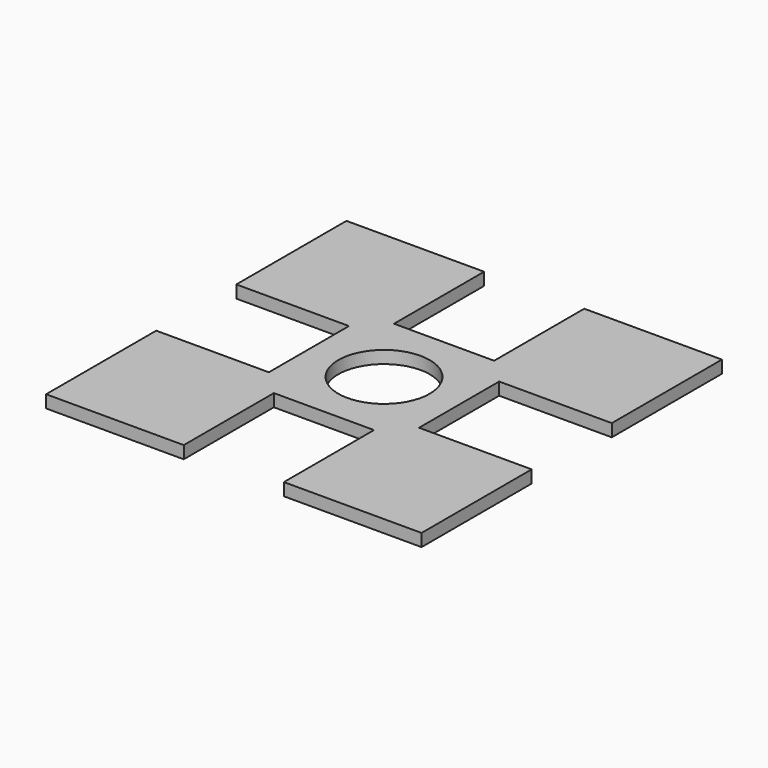
from build123d import *

# Parameters (mm, degrees)
SKETCH003_W   = 30
SKETCH003_H   = 30
PAD002_DEPTH  = 1
SKETCH002_R   = 3.65
SKETCH002_W   = 8
SKETCH002_H   = 9
SKETCH002_W_2 = 9
SKETCH002_H_2 = 8
POCKET_DEPTH  = 1


with BuildPart() as part:
    # Sketch003 → Pad002 (new body)
    with BuildSketch(Plane.XY):
        with Locations((15, 15)):
            Rectangle(SKETCH003_W, SKETCH003_H)
    extrude(amount=PAD002_DEPTH)

    # Sketch002 → Pocket (cut)
    with BuildSketch(Plane.XY.offset(1)):
        with Locations((15, 15)):
            Circle(SKETCH002_R)
        with Locations((15, 25.5)):
            Rectangle(SKETCH002_W, SKETCH002_H)
        with Locations((15, 4.5)):
            Rectangle(SKETCH002_W, SKETCH002_H)
        with Locations((4.5, 15)):
            Rectangle(SKETCH002_W_2, SKETCH002_H_2)
        with Locations((25.5, 15)):
            Rectangle(SKETCH002_W_2, SKETCH002_H_2)
    extrude(amount=-POCKET_DEPTH, mode=Mode.SUBTRACT)


solid = part.part
